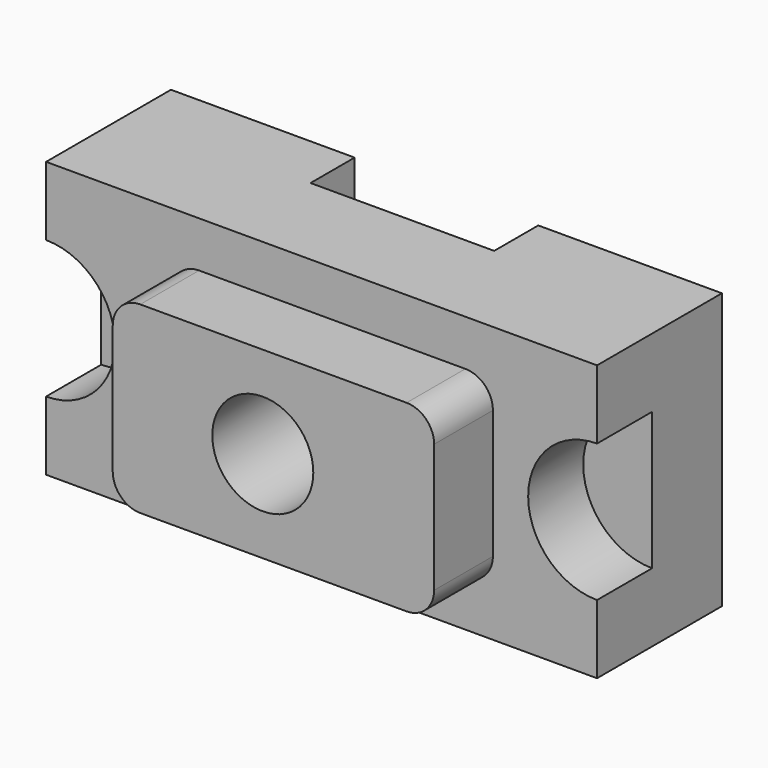
from build123d import *

# Parameters (mm, degrees)
F0_W      = 3048
F0_H      = 1524
F1_DEPTH  = 863.6
F3_DEPTH  = 381
F4_W      = 1016
F4_H      = 304.8
F5_DEPTH  = 1524.001
F7_DEPTH  = 406.4
F8_R      = 279.4
F9_DEPTH  = 406.401
F9_FACE_R = 279.4
F10_DEPTH = 863.601


with BuildPart() as f1:
    # F0 (on Front) → F1 (new body)
    with BuildSketch(Plane.XZ):
        Rectangle(F0_W, F0_H)
    extrude(amount=F1_DEPTH)

    # F2 (on face) → F3 (cut)
    with BuildSketch(Plane.XZ.offset(863.6)):
        with BuildLine():
            Line((-1524, 381), (-1524, -381))
            ThreePointArc((-1524, -381), (-1143, 0), (-1524, 381))
        make_face()
        with BuildLine():
            ThreePointArc((1524, 381), (1143, 0), (1524, -381))
            Line((1524, -381), (1524, 381))
        make_face()
    extrude(amount=-F3_DEPTH, mode=Mode.SUBTRACT)

    # F4 (on face) → F5 (cut, through all)
    with BuildSketch(Plane(origin=(0, 0, -762), x_dir=(1, 0, 0), z_dir=(0, 0, -1))):
        with Locations((0, 152.4)):
            Rectangle(F4_W, F4_H)
    extrude(amount=-F5_DEPTH, mode=Mode.SUBTRACT)

    # F6 (on face) → F7 (join)
    with BuildSketch(Plane.XZ.offset(863.6)):
        with BuildLine():
            ThreePointArc((947.886524, 355.6), (903.249597, 463.363073), (795.486524, 508))
            Line((795.486524, 508), (-677.713476, 508))
            ThreePointArc((-677.713476, 508), (-785.47655, 463.363073), (-830.113476, 355.6))
            Line((-830.113476, 355.6), (-830.113476, -355.6))
            ThreePointArc((-830.113476, -355.6), (-785.47655, -463.363073), (-677.713476, -508))
            Line((-677.713476, -508), (795.486524, -508))
            ThreePointArc((795.486524, -508), (903.249597, -463.363073), (947.886524, -355.6))
            Line((947.886524, -355.6), (947.886524, 355.6))
        make_face()
    extrude(amount=F7_DEPTH)

    # F8 (on face) → F9 (cut, through all)
    with BuildSketch(Plane.XZ.offset(863.6)):
        Circle(F8_R)
    extrude(amount=F9_DEPTH, mode=Mode.SUBTRACT)

    # F9_face (on face) → F10 (cut, through all)
    with BuildSketch(Plane.XZ.offset(863.6)):
        Circle(F9_FACE_R)
    extrude(amount=-F10_DEPTH, mode=Mode.SUBTRACT)


solid = f1.part
